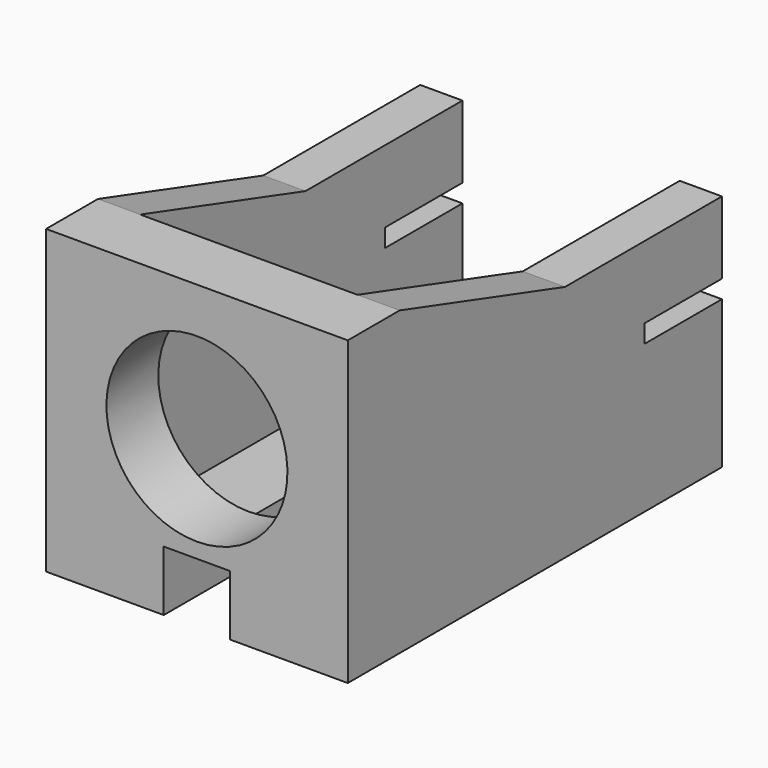
from build123d import *

# Parameters (mm, degrees)
SKETCH054_W     = 15.5
SKETCH054_H     = 10
PAD031_DEPTH    = 10
POCKET006_DEPTH = 9
POCKET007_DEPTH = 10
POCKET005_DEPTH = 8.6
SKETCH062_R     = 3
HOLE001_DEPTH   = 25
SKETCH057_W     = 3.2
SKETCH057_H     = 0.6
POCKET008_DEPTH = 10


with BuildPart() as part:
    # Sketch054 → Pad031 (new body)
    with BuildSketch(Plane.YZ):
        with Locations((7.75, 5)):
            Rectangle(SKETCH054_W, SKETCH054_H)
    extrude(amount=PAD031_DEPTH)

    # Sketch061 (on Face1 of Pad031) → Pocket006 (cut)
    with BuildSketch(Plane(origin=(0, 0, 0), x_dir=(0, 0, -1), z_dir=(0, -1, 0))):
        Polygon((-2, 6.1), (-2, 3.9), (0, 3.9), (0, 5), (0, 6.1), align=None)
    extrude(amount=-POCKET006_DEPTH, mode=Mode.SUBTRACT)

    # Sketch063 → Pocket007 (cut)
    with BuildSketch(Plane.YZ.offset(10)):
        Polygon((2.15, 10), (9, 7.9), (15.5, 7.9), (15.5, 10), align=None)
    extrude(amount=-POCKET007_DEPTH, mode=Mode.SUBTRACT)

    # Sketch055 (on Face4 of Pad031) → Pocket005 (cut)
    with BuildSketch(Plane(origin=(0, 0, 10), x_dir=(0, -1, 0), z_dir=(0, 0, 1))):
        Polygon((-15.5, 8.6), (-15.5, 5), (-15.5, 1.4), (-2.15, 1.4), (-2.15, 8.6), align=None)
    extrude(amount=-POCKET005_DEPTH, mode=Mode.SUBTRACT)

    # Sketch062 (on Face1 of Pocket006) → Hole001 (cut)
    with BuildSketch(Plane(origin=(0, 0, 0), x_dir=(0, 0, -1), z_dir=(0, -1, 0))):
        with Locations((-5.5, 5)):
            Circle(SKETCH062_R)
    extrude(amount=-HOLE001_DEPTH, mode=Mode.SUBTRACT)

    # Sketch057 (on Face2 of Hole001) → Pocket008 (cut)
    with BuildSketch(Plane(origin=(0, 0, 0), x_dir=(0, 1, 0), z_dir=(-1, 0, 0))):
        with Locations((13.9, -5.2)):
            Rectangle(SKETCH057_W, SKETCH057_H)
    extrude(amount=-POCKET008_DEPTH, mode=Mode.SUBTRACT)


solid = part.part
